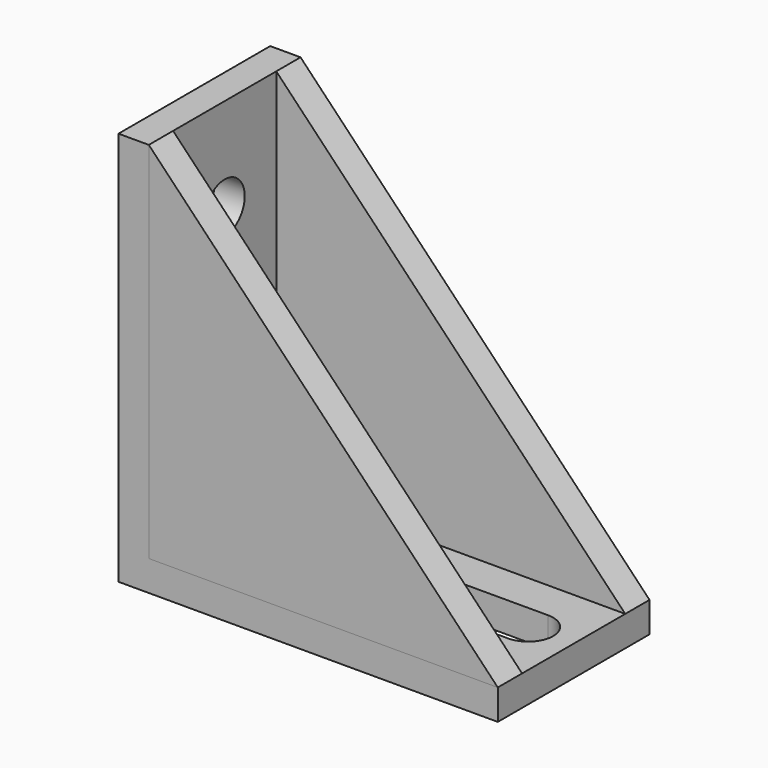
from build123d import *

# Parameters (mm, degrees)
F1_DEPTH  = 25
F3_DEPTH  = 4
F5_DEPTH  = 4
F7_D      = 6.6
F9_D      = 6.6
F11_DEPTH = 25


with BuildPart() as f1:
    # F0 (on Front) → F1 (new body)
    with BuildSketch(Plane.XZ):
        Polygon((-15.4377336651, 29.5263652645), (-19.4377336651, 29.5263652645), (-19.4377336651, -22.4736347355), (30.5622663349, -22.4736347355), (30.5622663349, -18.4736347355), (-15.4377336651, -18.4736347355), align=None)
    extrude(amount=F1_DEPTH)

    # F7 (through all)
    with Locations(Plane.YZ.offset(-15.4377336651)):
        with Locations((-12.5, 17.1458590776)):
            Hole(F7_D / 2)

    # F9 (through all)
    with Locations(Plane.XY.offset(-18.4736347355)):
        with Locations((-9.4377336651, -12.5), (24.5622663349, -12.5)):
            Hole(F9_D / 2)

    # F10 (on face) → F11 (cut)
    with BuildSketch(Plane.XY.offset(-18.4736347355)):
        with BuildLine():
            ThreePointArc((-6.1377336651, -12.5), (-7.0451613068, -14.7727950876), (-9.2683988227, -15.7956525471))
            Line((-9.2683988227, -15.7956525471), (24.5618422615, -15.7999999728))
            ThreePointArc((24.5618422615, -15.7999999728), (21.2622663349, -12.5), (24.5618422615, -9.2000000272))
            Line((24.5618422615, -9.2000000272), (-9.2683988227, -9.2043474529))
            ThreePointArc((-9.2683988227, -9.2043474529), (-7.0451613068, -10.2272049124), (-6.1377336651, -12.5))
        make_face()
    extrude(amount=-F11_DEPTH, mode=Mode.SUBTRACT)


with BuildPart() as f3:
    # F2 (on face) → F3 (new body)
    with BuildSketch(Plane.XZ.offset(25)):
        Polygon((30.5622663349, -18.4736347355), (-15.4377336651, 29.5263652645), (-15.4377336651, -18.4736347355), align=None)
    extrude(amount=-F3_DEPTH)


with BuildPart() as f5:
    # F4 (on face) → F5 (new body)
    with BuildSketch(Plane(origin=(0, 0, 0), x_dir=(-1, 0, 0), z_dir=(0, 1, 0))):
        Polygon((15.4377336651, -18.4736347355), (15.4377336651, 29.5263652645), (-30.5622663349, -18.4736347355), align=None)
    extrude(amount=-F5_DEPTH)


solid = Compound([f1.part, f3.part, f5.part])
